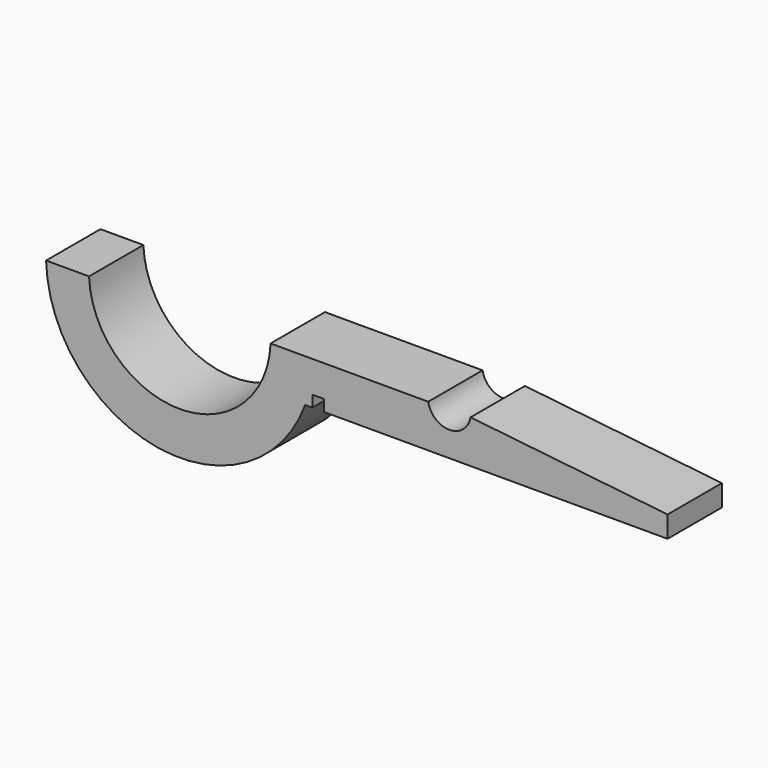
from build123d import *

# Parameters (mm, degrees)
F2_DEPTH = 9.5


with BuildPart() as f2:
    # F1 (on Front) → F2 (new body)
    with BuildSketch(Plane.XZ):
        with BuildLine():
            Line((-17.5572873813, -6.5), (30.5, -6.5))
            Line((30.5, -6.5), (30.5, -3.5))
            Line((30.5, -3.5), (2.9580398915, -0.5))
            ThreePointArc((2.9580398915, -0.5), (0, -3), (-2.9580398915, -0.5))
            Line((-2.9580398915, -0.5), (-17.160677935, -0.5))
            Line((-17.160677935, -0.5), (-17.1837798887, -0.5))
            Line((-17.1837798887, -0.5), (-25, -0.5))
            ThreePointArc((-25, -0.5), (-37.6901536634, -12.7), (-50.3803073267, -0.5))
            Line((-50.3803073267, -0.5), (-56.3834679762, -0.5))
            ThreePointArc((-56.3834679762, -0.5), (-40.745644054, -18.4486850066), (-20.1561866279, -6.5))
            Line((-20.1561866279, -6.5), (-19.1572873813, -6.5))
            Line((-19.1572873813, -6.5), (-19.1572873813, -4.9))
            Line((-19.1572873813, -4.9), (-17.5572873813, -4.9))
            Line((-17.5572873813, -4.9), (-17.5572873813, -6.5))
        make_face()
    extrude(amount=F2_DEPTH)


solid = f2.part
